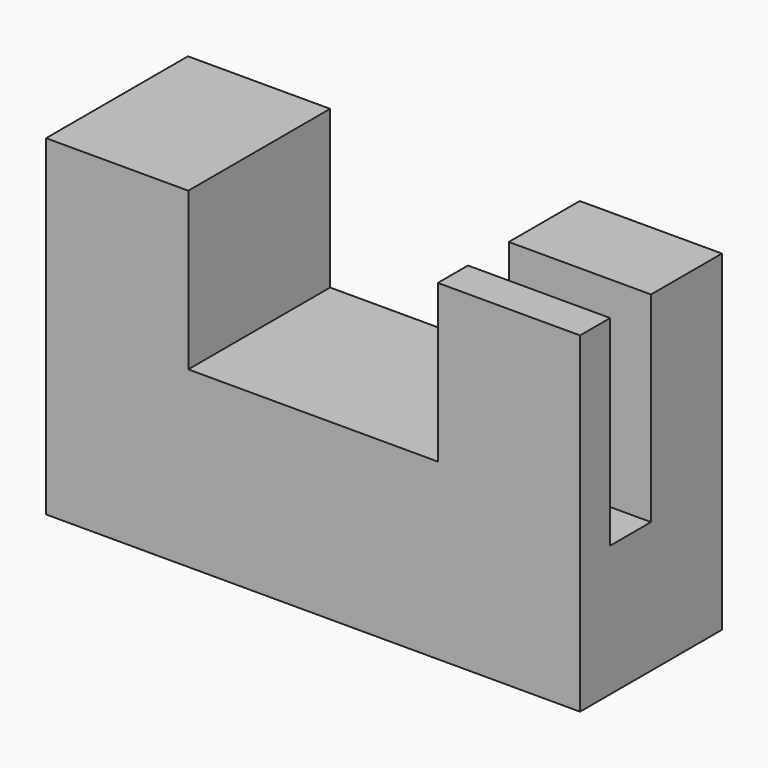
from build123d import *

# Parameters (mm, degrees)
F1_DEPTH = 25.4
F2_W     = 20.367536
F2_H     = 9.66201
F3_DEPTH = 25.4
F4_W     = 8.65579
F4_H     = 21.259759
F5_DEPTH = 25.146
F6_W     = 20.367536
F6_H     = 7.306238
F7_DEPTH = 28.702


with BuildPart() as f1:
    # F0 (on Front) → F1 (new body)
    with BuildSketch(Plane.XZ):
        Polygon((20.367537, 47.451993), (0, 47.451993), (0, 0), (76.48655, 0), (76.48655, 47.451993), (56.119014, 47.451993), (56.119014, 24.917716), (20.367537, 24.917716), align=None)
    extrude(amount=F1_DEPTH)

    # F2 (on face) → F3 (cut)
    with BuildSketch(Plane.XY.offset(47.451993)):
        with Locations((66.302782, -14.511633)):
            Rectangle(F2_W, F2_H)
    extrude(amount=F3_DEPTH, mode=Mode.SUBTRACT)

    # F4 (on face) → F5 (join)
    with BuildSketch(Plane.XY.offset(47.451993)):
        with Locations((66.302782, -14.77012)):
            Rectangle(F4_W, F4_H)
    extrude(amount=-F5_DEPTH)

    # F6 (on face) → F7 (cut)
    with BuildSketch(Plane.XY.offset(47.451993)):
        with Locations((66.302782, -16.353119)):
            Rectangle(F6_W, F6_H)
    extrude(amount=-F7_DEPTH, mode=Mode.SUBTRACT)


solid = f1.part
